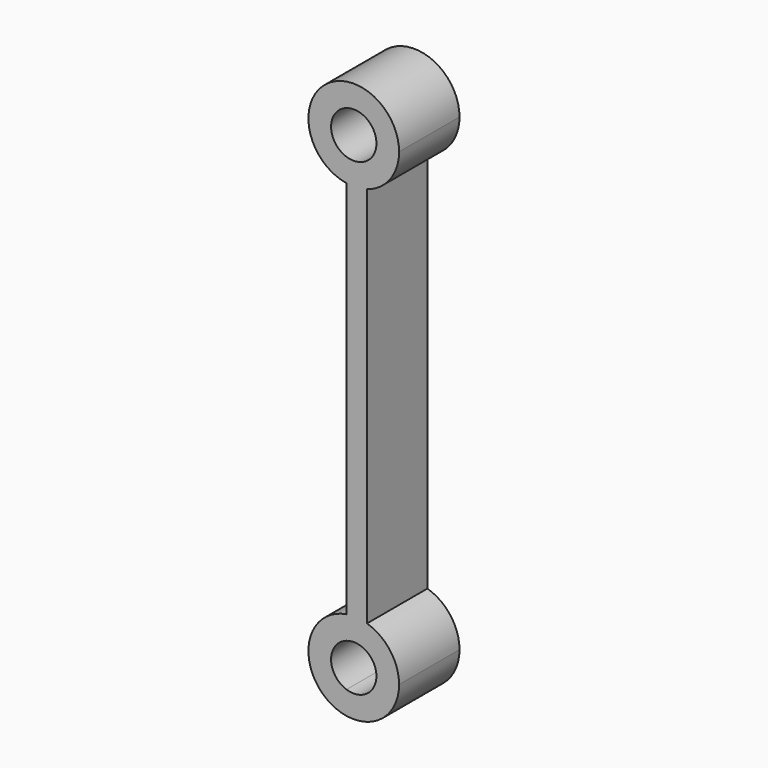
from build123d import *

# Parameters (mm, degrees)
F0_R     = 7.5
F1_DEPTH = 25


with BuildPart() as f1:
    # F0 (on Front) → F1 (new body)
    with BuildSketch(Plane.XZ):
        with BuildLine():
            ThreePointArc((4.382898, -14.34539), (12.05702, -8.923467), (15, 0))
            ThreePointArc((15, 0), (-9.72197, 11.422929), (-2.397775, -14.807116))
            ThreePointArc((-2.397775, -14.807116), (1.019056, -14.965344), (4.382898, -14.34539))
        make_face()
        Circle(F0_R, mode=Mode.SUBTRACT)
        with BuildLine():
            ThreePointArc((4.382898, -14.34539), (1.019056, -14.965344), (-2.397775, -14.807116))
            Line((-2.397775, -14.807116), (-2.397775, -140.385768))
            ThreePointArc((-2.397775, -140.385768), (1.019056, -140.22754), (4.382898, -140.847494))
            Line((4.382898, -140.847494), (4.382898, -14.34539))
        make_face()
        with BuildLine():
            Line((-2.397775, -148.086501), (-2.397775, -140.385768))
            ThreePointArc((-2.397775, -140.385768), (-15, -155.192884), (-2.397775, -170))
            Line((-2.397775, -170), (-2.397775, -162.299267))
            ThreePointArc((-2.397775, -162.299267), (-7.5, -155.192884), (-2.397775, -148.086501))
        make_face()
        with BuildLine():
            ThreePointArc((4.382898, -140.847494), (1.019056, -140.22754), (-2.397775, -140.385768))
            Line((-2.397775, -140.385768), (-2.397775, -148.086501))
            ThreePointArc((-2.397775, -148.086501), (4.374168, -149.10054), (7.5, -155.192884))
            ThreePointArc((7.5, -155.192884), (4.374168, -161.285228), (-2.397775, -162.299267))
            Line((-2.397775, -162.299267), (-2.397775, -170))
            ThreePointArc((-2.397775, -170), (9.72197, -166.615813), (15, -155.192884))
            ThreePointArc((15, -155.192884), (12.05702, -146.269417), (4.382898, -140.847494))
        make_face()
    extrude(amount=F1_DEPTH)


solid = f1.part
